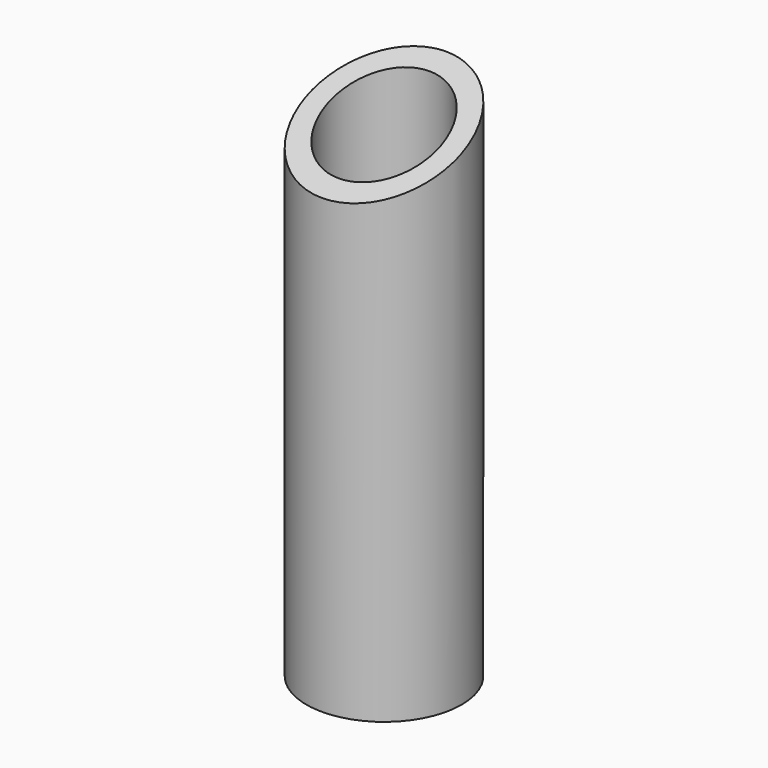
from build123d import *

# Parameters (mm, degrees)
F0_R     = 14.919644
F1_DEPTH = 101.6
F2_R     = 10.915326
F3_DEPTH = 127
F5_DEPTH = 152.4
F6_DEPTH = 152.4
F7_DEPTH = 81.026


with BuildPart() as f1:
    # F0 (on Top) → F1 (new body)
    with BuildSketch(Plane.XY):
        Circle(F0_R)
    extrude(amount=F1_DEPTH)

    # F2 (on face) → F3 (cut)
    with BuildSketch(Plane.XY.offset(101.6)):
        Circle(F2_R)
    extrude(amount=-F3_DEPTH, mode=Mode.SUBTRACT)

    # F4 (on Right) → F5 (cut)
    with BuildSketch(Plane.YZ):
        Polygon((-28.046316, 81.424184), (20.338934, 101.977214), (-28.046316, 101.977214), align=None)
    extrude(amount=-F5_DEPTH, mode=Mode.SUBTRACT)

    # F4 (on Right) → F6 (cut)
    with BuildSketch(Plane.YZ):
        Polygon((-28.046316, 81.424184), (20.338934, 101.977214), (-28.046316, 101.977214), align=None)
    extrude(amount=-F6_DEPTH, mode=Mode.SUBTRACT)

    # F4 (on Right) → F7 (cut)
    with BuildSketch(Plane.YZ):
        Polygon((-28.046316, 81.424184), (20.338934, 101.977214), (-28.046316, 101.977214), align=None)
    extrude(amount=F7_DEPTH, mode=Mode.SUBTRACT)


solid = f1.part
